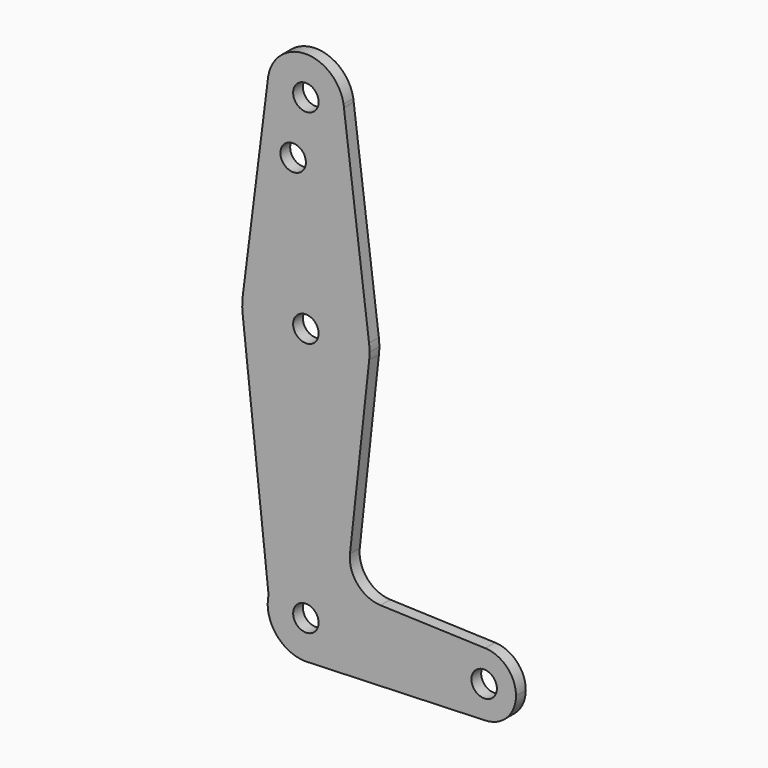
from build123d import *

# Parameters (mm, degrees)
F0_R     = 3.175
F1_DEPTH = 3.048


with BuildPart() as f1:
    # F0 (on Front) → F1 (new body)
    with BuildSketch(Plane.XZ):
        with BuildLine():
            Line((9.491881, 115.093614), (9.391576, 115.888687))
            ThreePointArc((9.391576, 115.888687), (0, 123.825), (-9.391576, 115.888687))
            Line((-9.391576, 115.888687), (-9.491881, 115.093614))
            ThreePointArc((-9.491881, 115.093614), (-0.397153, 104.783283), (9.525, 114.3))
            ThreePointArc((9.525, 114.3), (9.516717, 114.697153), (9.491881, 115.093614))
        make_face()
        with Locations((0, 114.3)):
            Circle(F0_R, mode=Mode.SUBTRACT)
        with BuildLine():
            ThreePointArc((9.491881, 115.093614), (9.450094, 115.492206), (9.391576, 115.888687))
            Line((9.391576, 115.888687), (9.491881, 115.093614))
        make_face()
        with BuildLine():
            Line((-9.491881, 115.093614), (-9.391576, 115.888687))
            ThreePointArc((-9.391576, 115.888687), (-9.450094, 115.492206), (-9.491881, 115.093614))
        make_face()
        with BuildLine():
            Line((15.750156, 65.48701), (9.491881, 115.093614))
            ThreePointArc((9.491881, 115.093614), (9.516717, 114.697153), (9.525, 114.3))
            ThreePointArc((9.525, 114.3), (-0.397153, 104.783283), (-9.491881, 115.093614))
            Line((-9.491881, 115.093614), (-15.750156, 65.48701))
            ThreePointArc((-15.750156, 65.48701), (0, 79.375), (15.750156, 65.48701))
        make_face()
        with Locations((-3.175, 100.0252)):
            Circle(F0_R, mode=Mode.SUBTRACT)
        with BuildLine():
            ThreePointArc((15.875, 63.5), (15.843758, 64.495464), (15.750156, 65.48701))
            ThreePointArc((15.750156, 65.48701), (0, 79.375), (-15.750156, 65.48701))
            ThreePointArc((-15.750156, 65.48701), (-15.874395, 63.638641), (-15.782459, 61.788384))
            ThreePointArc((-15.782459, 61.788384), (0, 47.625), (15.782459, 61.788384))
            ThreePointArc((15.782459, 61.788384), (15.851848, 62.642942), (15.875, 63.5))
        make_face()
        with Locations((0, 63.5)):
            Circle(F0_R, mode=Mode.SUBTRACT)
        with BuildLine():
            ThreePointArc((15.782459, 61.788384), (0, 47.625), (-15.782459, 61.788384))
            Line((-15.782459, 61.788384), (-9.303134, 2.04385))
            ThreePointArc((-9.303134, 2.04385), (1.027929, 9.469371), (9.525, 0))
            ThreePointArc((9.525, 0), (6.970557, -6.491299), (0.677344, -9.500886))
            Line((0.677344, -9.500886), (44.732405, -7.932475))
            ThreePointArc((44.732405, -7.932475), (36.5125, 0), (44.732405, 7.932475))
            Line((44.732405, 7.932475), (18.618201, 8.862171))
            ThreePointArc((18.618201, 8.862171), (12.890577, 11.603511), (10.997203, 17.664514))
            Line((10.997203, 17.664514), (15.782459, 61.788384))
        make_face()
        with BuildLine():
            ThreePointArc((9.525, 0), (1.027929, 9.469371), (-9.303134, 2.04385))
            ThreePointArc((-9.303134, 2.04385), (-7.422712, -5.969001), (0, -9.525))
            Line((0, -9.525), (0.677344, -9.500886))
            ThreePointArc((0.677344, -9.500886), (6.970557, -6.491299), (9.525, 0))
        make_face()
        Circle(F0_R, mode=Mode.SUBTRACT)
        with BuildLine():
            Line((0.677344, -9.500886), (0, -9.525))
            ThreePointArc((0, -9.525), (0.338886, -9.51897), (0.677344, -9.500886))
        make_face()
        with BuildLine():
            ThreePointArc((52.3875, 0), (50.161633, 5.51191), (44.732405, 7.932475))
            ThreePointArc((44.732405, 7.932475), (36.5125, 0), (44.732405, -7.932475))
            ThreePointArc((44.732405, -7.932475), (50.161633, -5.51191), (52.3875, 0))
        make_face()
        with Locations((44.45, 0)):
            Circle(F0_R, mode=Mode.SUBTRACT)
    extrude(amount=F1_DEPTH)


solid = f1.part
